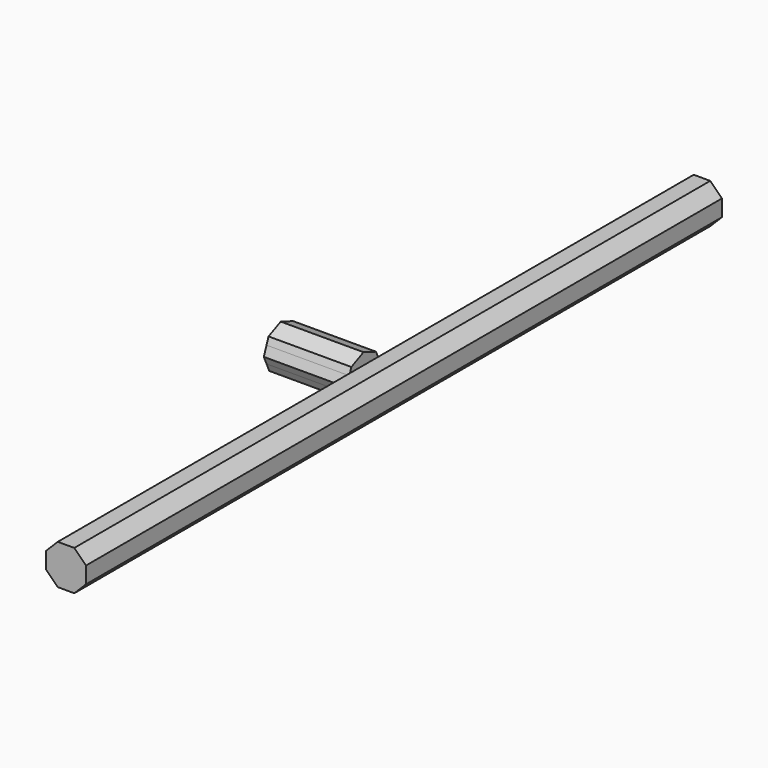
from build123d import *

# Parameters (mm, degrees)
F1_DEPTH = 1219.2
F3_DEPTH = 127


with BuildPart() as f1:
    # F0 (on Front) → F1 (new body)
    with BuildSketch(Plane.XZ):
        Polygon((30.604916, -12.676971), (30.604916, 12.676971), (12.676971, 30.604916), (-12.676971, 30.604916), (-30.604916, 12.676971), (-30.604916, -12.676971), (-12.676971, -30.604916), (12.676971, -30.604916), align=None)
    extrude(amount=F1_DEPTH)

    # F2 (on face) → F3 (join)
    with BuildSketch(Plane(origin=(-30.604916, 0, 0), x_dir=(0, -1, 0), z_dir=(-1, 0, 0))):
        Polygon((581.44556, 12.676971), (637.815356, 12.676971), (633.938922, 22.903467), (610.61502, 33.405414), (586.696533, 24.338922), align=None)
        Polygon((637.75444, -12.676971), (643.005414, -1.01502), (637.815356, 12.676971), (581.44556, 12.676971), (576.194586, 1.01502), (581.384644, -12.676971), align=None)
        Polygon((632.503467, -24.338922), (637.75444, -12.676971), (581.384644, -12.676971), (585.261078, -22.903467), (608.58498, -33.405414), align=None)
    extrude(amount=F3_DEPTH)


solid = f1.part
